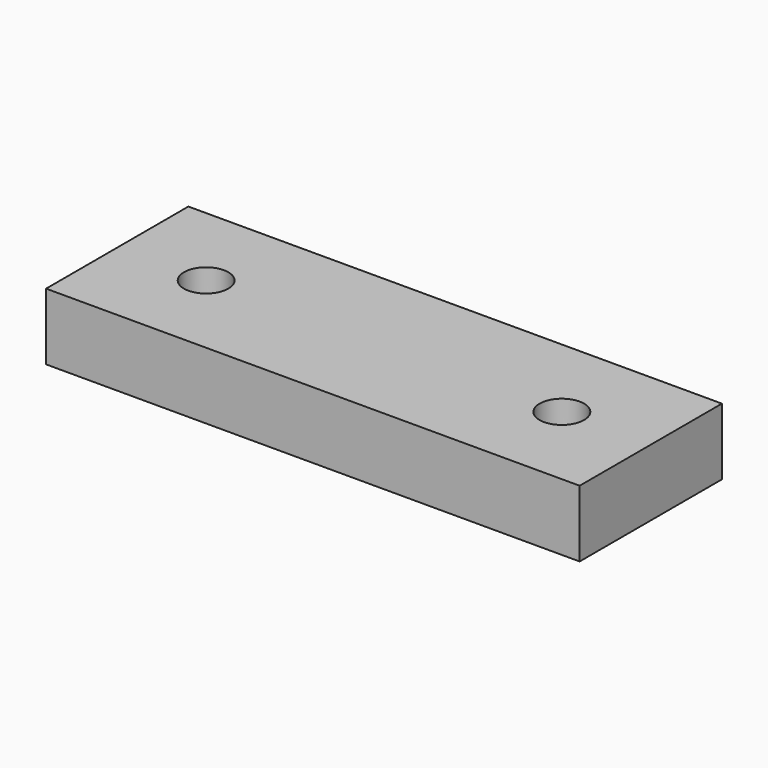
from build123d import *

# Parameters (mm, degrees)
F0_W          = 120
F0_H          = 15
F1_DEPTH      = 20
F1_DEPTH_BACK = 20
F2_R          = 5
F3_DEPTH      = 15.001


with BuildPart() as f1:
    # F0 (on Front) → F1 (new body, two sides)
    with BuildSketch(Plane.XZ) as f1_sk:
        Rectangle(F0_W, F0_H)
    extrude(amount=F1_DEPTH)
    extrude(f1_sk.sketch, amount=-F1_DEPTH_BACK)

    # F2 (on face) → F3 (cut, through all)
    with BuildSketch(Plane.XY.offset(7.5)):
        with Locations((-40, 0)):
            Circle(F2_R)
        with Locations((40, 0)):
            Circle(F2_R)
    extrude(amount=-F3_DEPTH, mode=Mode.SUBTRACT)


solid = f1.part
